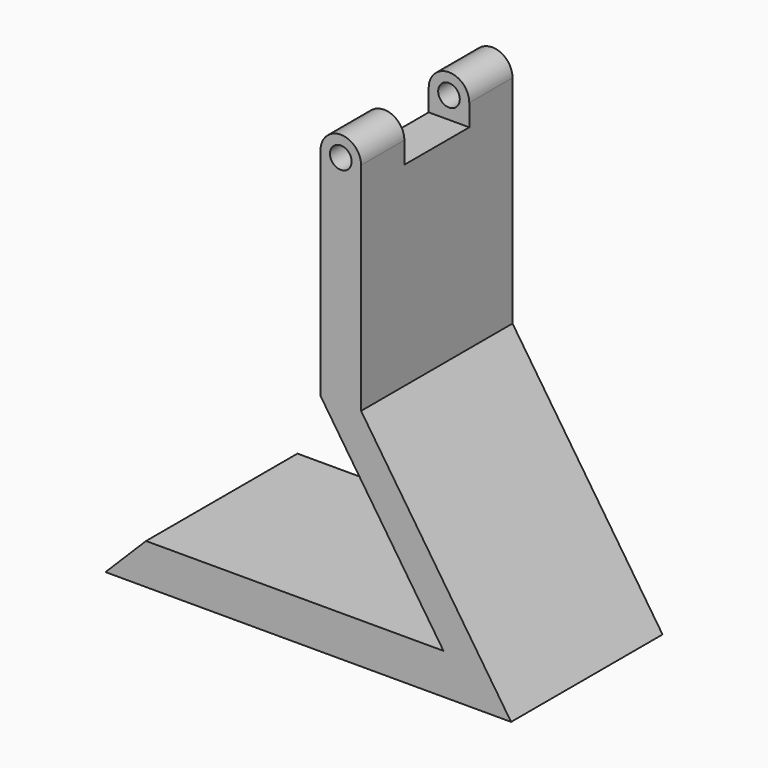
from build123d import *

# Parameters (mm, degrees)
F0_W      = 125
F0_H      = 70
F1_DEPTH  = 15
F3_DEPTH  = 70
F5_DEPTH  = 70
F7_DEPTH  = 70
F9_DEPTH  = 20
F11_DEPTH = 20
F12_W     = 15
F12_H     = 30
F13_DEPTH = 72


with BuildPart() as f1:
    # F0 (on Top) → F1 (new body)
    with BuildSketch(Plane.XY):
        Rectangle(F0_W, F0_H)
    extrude(amount=F1_DEPTH)

    # F2 (on face) → F3 (join)
    with BuildSketch(Plane.XZ.offset(35)):
        Polygon((62.5, 15), (62.5, 0), (72.5, 0), align=None)
    extrude(amount=-F3_DEPTH)

    # F4 (on face) → F5 (join)
    with BuildSketch(Plane.XZ.offset(35)):
        Polygon((-77.5, 0), (-62.5, 0), (-62.5, 15), align=None)
    extrude(amount=-F5_DEPTH)

    # F6 (on face) → F7 (join)
    with BuildSketch(Plane(origin=(0, 35, 0), x_dir=(-1, 0, 0), z_dir=(0, 1, 0))):
        Polygon((-17.0299803775, 83.2050294338), (-62.5, 15), (-47.5, 15), (-2.0299803775, 83.2050294338), align=None)
    extrude(amount=-F7_DEPTH)

    # F8 (on face) → F9 (join)
    with BuildSketch(Plane.XZ.offset(35)):
        with BuildLine():
            Line((2.0299803775, 163.2050294338), (2.0299803775, 83.2050294338))
            Line((2.0299803775, 83.2050294338), (17.0299803775, 83.2050294338))
            Line((17.0299803775, 83.2050294338), (17.0299803775, 163.2050294338))
            ThreePointArc((17.0299803775, 163.2050294338), (9.5299803775, 155.7050294338), (2.0299803775, 163.2050294338))
        make_face()
        with BuildLine():
            ThreePointArc((17.0299803775, 163.2050294338), (9.5299803775, 170.7050294338), (2.0299803775, 163.2050294338))
            Line((2.0299803775, 163.2050294338), (5.5299803775, 163.2050294338))
            ThreePointArc((5.5299803775, 163.2050294338), (9.5299803775, 167.2050294338), (13.5299803775, 163.2050294338))
            Line((13.5299803775, 163.2050294338), (17.0299803775, 163.2050294338))
        make_face()
        with BuildLine():
            Line((5.5299803775, 163.2050294338), (2.0299803775, 163.2050294338))
            ThreePointArc((2.0299803775, 163.2050294338), (9.5299803775, 155.7050294338), (17.0299803775, 163.2050294338))
            Line((17.0299803775, 163.2050294338), (13.5299803775, 163.2050294338))
            ThreePointArc((13.5299803775, 163.2050294338), (9.5299803775, 159.2050294338), (5.5299803775, 163.2050294338))
        make_face()
    extrude(amount=-F9_DEPTH)

    # F10 (on face) → F11 (join)
    with BuildSketch(Plane(origin=(0, 35, 0), x_dir=(-1, 0, 0), z_dir=(0, 1, 0))):
        with BuildLine():
            Line((-17.0299803775, 163.2050294338), (-17.0299803775, 83.2050294338))
            Line((-17.0299803775, 83.2050294338), (-2.0299803775, 83.2050294338))
            Line((-2.0299803775, 83.2050294338), (-2.0299803775, 163.2050294338))
            ThreePointArc((-2.0299803775, 163.2050294338), (-9.5299803775, 155.7050294338), (-17.0299803775, 163.2050294338))
        make_face()
        with BuildLine():
            ThreePointArc((-2.0299803775, 163.2050294338), (-9.5299803775, 170.7050294338), (-17.0299803775, 163.2050294338))
            Line((-17.0299803775, 163.2050294338), (-13.5299803775, 163.2050294338))
            ThreePointArc((-13.5299803775, 163.2050294338), (-9.5299803775, 167.2050294338), (-5.5299803775, 163.2050294338))
            Line((-5.5299803775, 163.2050294338), (-2.0299803775, 163.2050294338))
        make_face()
        with BuildLine():
            Line((-13.5299803775, 163.2050294338), (-17.0299803775, 163.2050294338))
            ThreePointArc((-17.0299803775, 163.2050294338), (-9.5299803775, 155.7050294338), (-2.0299803775, 163.2050294338))
            Line((-2.0299803775, 163.2050294338), (-5.5299803775, 163.2050294338))
            ThreePointArc((-5.5299803775, 163.2050294338), (-9.5299803775, 159.2050294338), (-13.5299803775, 163.2050294338))
        make_face()
    extrude(amount=-F11_DEPTH)

    # F12 (on face) → F13 (join)
    with BuildSketch(Plane.XY.offset(83.2050294338)):
        with Locations((9.5299803775, 0)):
            Rectangle(F12_W, F12_H)
    extrude(amount=F13_DEPTH)


solid = f1.part
